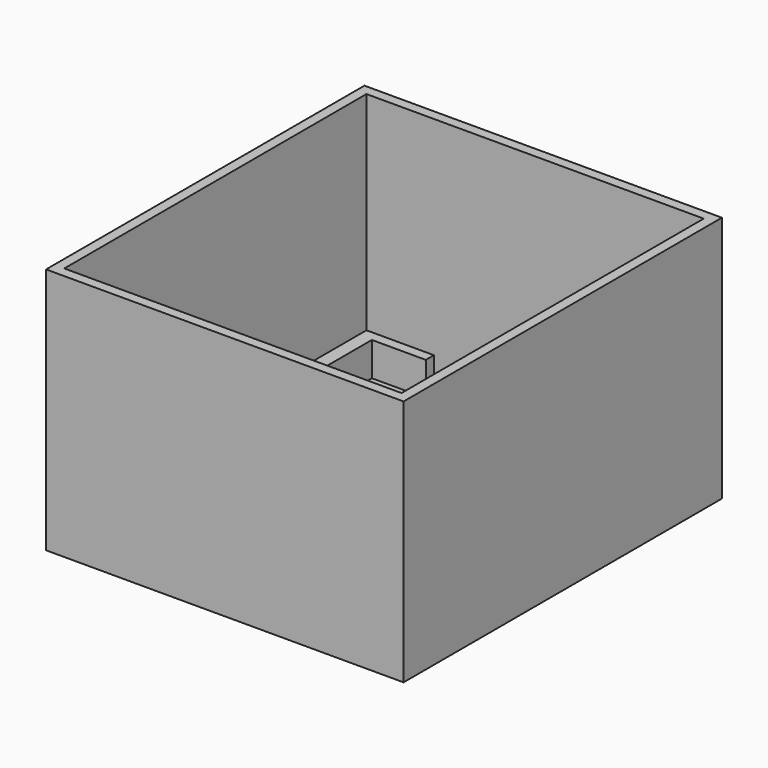
from build123d import *

# Parameters (mm, degrees)
F0_W      = 3000
F0_H      = 3360
F1_DEPTH  = 50
F2_W      = 600
F2_H      = 90
F3_DEPTH  = 300
F7_W      = 120
F7_H      = 2000
F8_DEPTH  = 300
F10_W     = 3180
F10_H     = 3540
F10_W_2   = 3000
F10_H_2   = 3360
F11_DEPTH = 2200


with BuildPart() as f1:
    # F0 (on Top) → F1 (new body)
    with BuildSketch(Plane.XY):
        with Locations((2.7256049216, -142.5483769343)):
            Rectangle(F0_W, F0_H)
    extrude(amount=-F1_DEPTH)

    # F2 (on face) → F3 (join)
    with BuildSketch(Plane.XY):
        with Locations((-1197.2743950784, 1492.4516230657)):
            Rectangle(F2_W, F2_H)
    extrude(amount=F3_DEPTH)

    # F7 (on face) → F8 (join)
    with BuildSketch(Plane.XY):
        with Locations((-1437.2743950784, 447.4516230657)):
            Rectangle(F7_W, F7_H)
    extrude(amount=F8_DEPTH)

    # F10 (on offset) → F11 (join)
    with BuildSketch(Plane(origin=(0, 0, -50), x_dir=(1, 0, 0), z_dir=(0, 0, -1))):
        with Locations((2.7256049216, 142.5483769343)):
            Rectangle(F10_W, F10_H)
        with Locations((2.7256049216, 142.5483769343)):
            Rectangle(F10_W_2, F10_H_2, mode=Mode.SUBTRACT)
    extrude(amount=-F11_DEPTH)


solid = f1.part
